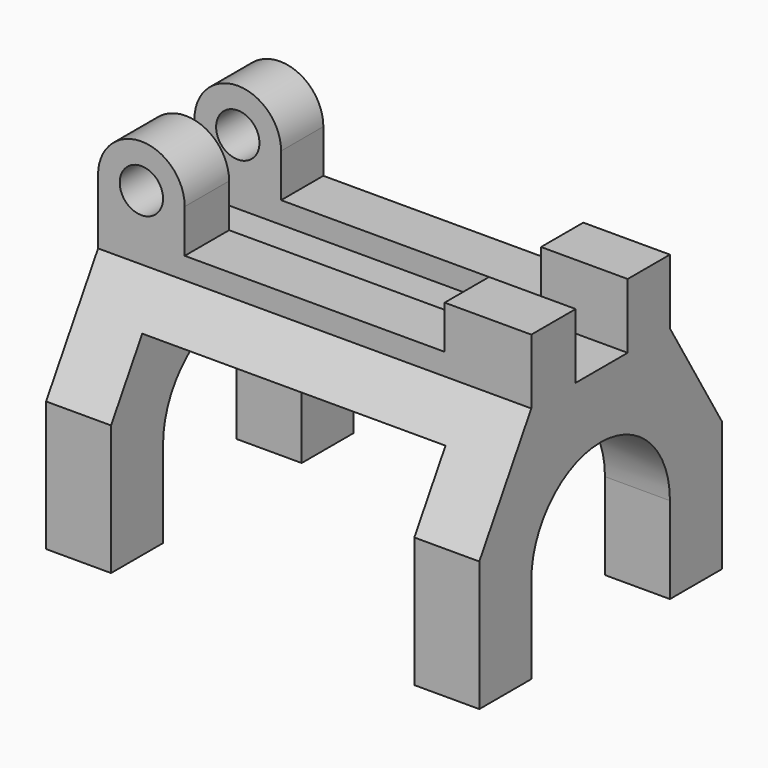
from build123d import *

# Parameters (mm, degrees)
F0_R     = 6.35
F1_DEPTH = 88.9
F3_DEPTH = 127.001


with BuildPart() as f1:
    # F0 (on Front) → F1 (new body)
    with BuildSketch(Plane.XZ):
        with BuildLine():
            Line((-38.239525, 14.109968), (-38.239525, -43.040032))
            Line((-38.239525, -43.040032), (-19.189525, -43.040032))
            Line((-19.189525, -43.040032), (-19.189525, 14.109968))
            Line((-19.189525, 14.109968), (69.710475, 14.109968))
            Line((69.710475, 14.109968), (69.710475, -43.040032))
            Line((69.710475, -43.040032), (88.760475, -43.040032))
            Line((88.760475, -43.040032), (88.760475, 14.109968))
            Line((88.760475, 14.109968), (88.760475, 33.159968))
            Line((88.760475, 33.159968), (88.760475, 45.859968))
            Line((88.760475, 45.859968), (63.360475, 45.859968))
            Line((63.360475, 45.859968), (63.360475, 33.159968))
            Line((63.360475, 33.159968), (-12.839525, 33.159968))
            Line((-12.839525, 33.159968), (-12.839525, 45.859968))
            ThreePointArc((-12.839525, 45.859968), (-25.539525, 58.559968), (-38.239525, 45.859968))
            Line((-38.239525, 45.859968), (-38.239525, 33.159968))
            Line((-38.239525, 33.159968), (-38.239525, 14.109968))
        make_face()
        with Locations((-25.539525, 45.859968)):
            Circle(F0_R, mode=Mode.SUBTRACT)
    extrude(amount=F1_DEPTH)

    # F2 (on face) → F3 (cut, through all)
    with BuildSketch(Plane(origin=(-38.239525, 0, 0), x_dir=(0, -1, 0), z_dir=(-1, 0, 0))):
        Polygon((69.85, 26.809968), (88.9, -4.940032), (88.9, 58.559968), (69.85, 58.559968), align=None)
        Polygon((0, 58.559968), (0, -4.940032), (19.05, 26.809968), (19.05, 58.559968), align=None)
        Polygon((34.534499, 26.809968), (44.45, 26.809968), (53.584499, 26.809968), (53.584499, 58.559968), (34.534499, 58.559968), align=None)
        with BuildLine():
            ThreePointArc((69.85, -17.640032), (44.45, 7.759968), (19.05, -17.640032))
            Line((19.05, -17.640032), (19.05, -43.040032))
            Line((19.05, -43.040032), (69.85, -43.040032))
            Line((69.85, -43.040032), (69.85, -17.640032))
        make_face()
    extrude(amount=-F3_DEPTH, mode=Mode.SUBTRACT)


solid = f1.part
